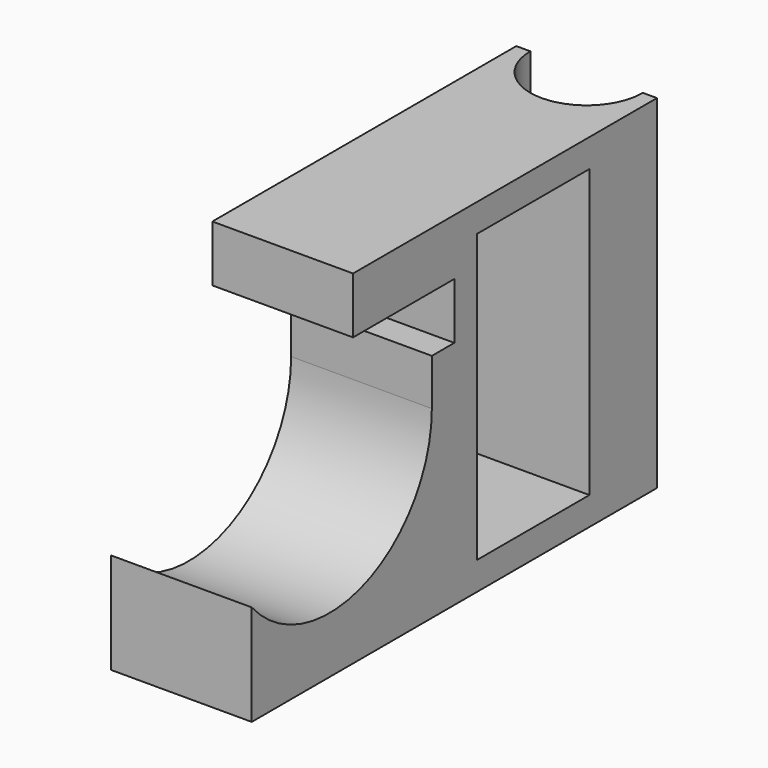
from build123d import *

# Parameters (mm, degrees)
F1_DEPTH = 12.7
F3_DEPTH = 12.7
F5_DEPTH = 76.2


with BuildPart() as f1:
    # F0 (on Right) → F1 (new body)
    with BuildSketch(Plane.YZ):
        with BuildLine():
            ThreePointArc((11.557, 0), (4.0181, -10.83601), (-8.763, -7.534858))
            Line((-8.763, -7.534858), (-8.763, -16.637))
            Line((-8.763, -16.637), (11.557, -16.637))
            Line((11.557, -16.637), (16.637, -16.637))
            Line((16.637, -16.637), (16.637, 14.351))
            Line((16.637, 14.351), (2.667, 14.351))
            Line((2.667, 14.351), (2.667, 9.271))
            Line((2.667, 9.271), (11.557, 9.271))
            Line((11.557, 9.271), (14.097, 9.271))
            Line((14.097, 9.271), (14.097, 4.191))
            Line((14.097, 4.191), (11.557, 4.191))
            Line((11.557, 4.191), (11.557, 0))
        make_face()
    extrude(amount=F1_DEPTH)

    # F2 (on face) → F3 (join)
    with BuildSketch(Plane(origin=(0, 0, 0), x_dir=(0, -1, 0), z_dir=(-1, 0, 0))):
        Polygon((-16.637, 11.811), (-16.637, 14.351), (-36.957, 14.351), (-36.957, -16.637), (-16.637, -16.637), (-16.637, -14.097), (-29.337, -14.097), (-29.337, 11.811), align=None)
    extrude(amount=-F3_DEPTH)

    # F4 (on face) → F5 (cut)
    with BuildSketch(Plane.XY.offset(14.351)):
        with BuildLine():
            ThreePointArc((1.27, 36.957), (6.35, 31.877), (11.43, 36.957))
            Line((11.43, 36.957), (1.27, 36.957))
        make_face()
        with BuildLine():
            Line((1.27, 36.957), (11.43, 36.957))
            ThreePointArc((11.43, 36.957), (6.35, 42.037), (1.27, 36.957))
        make_face()
    extrude(amount=-F5_DEPTH, mode=Mode.SUBTRACT)


solid = f1.part
